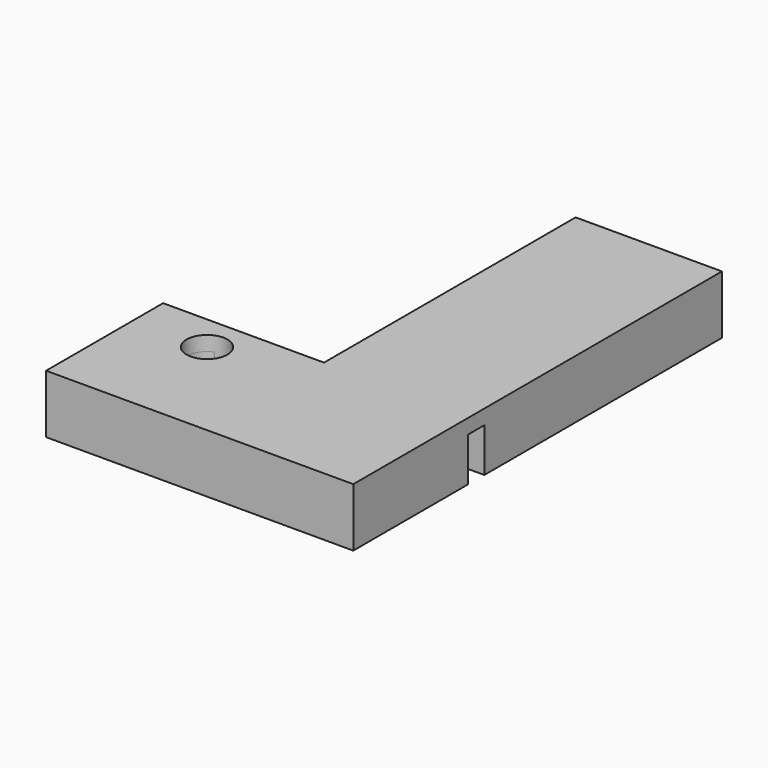
from build123d import *

# Parameters (mm, degrees)
CYLINDER005_R     = 1.4
CYLINDER005_DEPTH = 10
EXTRUDE001_DEPTH  = 3
SKETCH002_R       = 1.4
EXTRUDE002_DEPTH  = 4
EXTRUDE_DEPTH     = 1


with BuildPart() as cylinder005:
    # Cylinder005 → Cylinder005 (new body)
    with BuildSketch(Plane(origin=(-5, 2.5, -5), x_dir=(1, 0, 0), z_dir=(0, 0, 1))):
        Circle(CYLINDER005_R)
    extrude(amount=CYLINDER005_DEPTH)


with BuildPart() as extrude001:
    # Sketch001 → Extrude001 (new body)
    with BuildSketch(Plane.XY.offset(10)):
        Polygon((-21, 10), (0, 10), (0, 9), (-20, 9), (-20, 1.2), (0, 1.2), (0, 0.2), (-21, 0.2), align=None)
        Polygon((-21, -1.2), (-12.2, -1.2), (-12.2, -21.5), (-13.2, -21.5), (-13.2, -2.2), (-20, -2.2), (-20, -21.5), (-21, -21.5), align=None)
    extrude(amount=-EXTRUDE001_DEPTH)


with BuildPart() as extrude001_1:
    # Extrude001 placement: moved
    add(extrude001.part.moved(Location((0, 0, -8))))


with BuildPart() as extrude002:
    # Sketch002 → Extrude002 (new body)
    with BuildSketch(Plane.XY.offset(10)):
        with BuildLine():
            ThreePointArc((-2.695656, 0), (-5, 5.9), (-7.304344, 0))
            Line((-7.304344, 0), (-2.695656, 0))
        make_face()
        with Locations((-5, 2.5)):
            Circle(SKETCH002_R, mode=Mode.SUBTRACT)
    extrude(amount=-EXTRUDE002_DEPTH)


with BuildPart() as extrude002_1:
    # Extrude002 placement: moved
    add(extrude002.part.moved(Location((0, 0, -7))))


with BuildPart() as body001:
    # Sketch → Extrude (new body)
    with BuildSketch(Plane.XY):
        Polygon((-11, 0), (0, 0), (0, 10), (-21, 10), (-21, -21.5), (-11, -21.5), align=None)
    extrude(amount=EXTRUDE_DEPTH)


with BuildPart() as body001_1:
    # Extrude placement: moved
    add(body001.part.moved(Location((0, 0, 2))))

    # Fusion012: union Extrude001, Extrude002
    add(extrude001_1.part)
    add(extrude002_1.part)

    # Cut001: cut Cylinder005
    add(cylinder005.part, mode=Mode.SUBTRACT)


with BuildPart() as body003:
    # Part__Mirroring002: instance of Body001
    add(body001_1.part.mirror(Plane(origin=(0, -21.5, 0), x_dir=(1, 0, 0), z_dir=(0, 1, 0))))


with BuildPart() as part_mirroring004:
    # Part__Mirroring004: instance of Body003
    add(body003.part.mirror(Plane(origin=(0, -21.5, 0), x_dir=(0, -1, 0), z_dir=(1, 0, 0))))


solid = part_mirroring004.part
